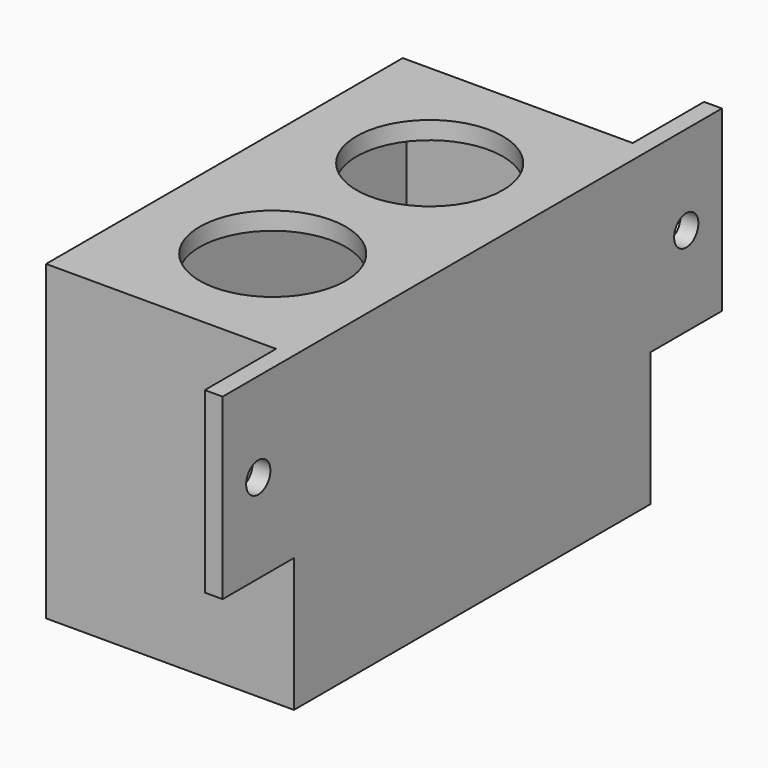
from build123d import *

# Parameters (mm, degrees)
PAD_DEPTH       = 20
SKETCH001_W     = 23.8
SKETCH001_H     = 46
POCKET_DEPTH    = 18
SKETCH002_R     = 8.2
POCKET001_DEPTH = 5
SKETCH003_R     = 1.7
POCKET002_DEPTH = 5
SKETCH004_R     = 1.7
POCKET003_DEPTH = 5
SKETCH005_W     = 25.8
SKETCH005_H     = 2
SKETCH005_W_2   = 2
SKETCH005_H_2   = 48
SKETCH005_W_3   = 23.8
SKETCH005_H_3   = 50
PAD001_DEPTH    = 15
SKETCH006_W     = 23.8
SKETCH006_H     = 46
POCKET004_DEPTH = 15


with BuildPart() as part:
    # Sketch → Pad (new body)
    with BuildSketch(Plane.XY):
        Polygon((-2, 15.090214), (0, 15.090214), (0, -54.909786), (-2, -54.909786), (-2, -44.909786), (-27.8, -44.909786), (-27.8, 5.090214), (-2, 5.090214), align=None)
    extrude(amount=PAD_DEPTH)

    # Sketch001 (on Face9 of Pad) → Pocket (cut)
    with BuildSketch(Plane(origin=(0, 0, 0), x_dir=(1, 0, 0), z_dir=(0, 0, -1))):
        with Locations((-13.9, 19.909786)):
            Rectangle(SKETCH001_W, SKETCH001_H)
    extrude(amount=-POCKET_DEPTH, mode=Mode.SUBTRACT)

    # Sketch002 (on Face5 of Pocket) → Pocket001 (cut)
    with BuildSketch(Plane.XY.offset(20)):
        with Locations((-13.5, -9.004213)):
            Circle(SKETCH002_R)
        with Locations((-13.5, -31.004213)):
            Circle(SKETCH002_R)
    extrude(amount=-POCKET001_DEPTH, mode=Mode.SUBTRACT)

    # Sketch003 (on Face9 of Pocket001) → Pocket002 (cut)
    with BuildSketch(Plane(origin=(-2, 0, 0), x_dir=(0, -1, 0), z_dir=(-1, 0, 0))):
        with Locations((49.909786, 10)):
            Circle(SKETCH003_R)
    extrude(amount=-POCKET002_DEPTH, mode=Mode.SUBTRACT)

    # Sketch004 (on Face2 of Pocket002) → Pocket003 (cut)
    with BuildSketch(Plane(origin=(-2, 0, 0), x_dir=(0, -1, 0), z_dir=(-1, 0, 0))):
        with Locations((-10.090214, 10)):
            Circle(SKETCH004_R)
    extrude(amount=-POCKET003_DEPTH, mode=Mode.SUBTRACT)

    # Sketch005 (on Face4 of Pocket003) → Pad001 (join)
    with BuildSketch(Plane(origin=(0, 0, 0), x_dir=(1, 0, 0), z_dir=(0, 0, -1))):
        with Locations((-14.9, 43.909786)):
            Rectangle(SKETCH005_W, SKETCH005_H)
        with Locations((-26.8, 18.909786)):
            Rectangle(SKETCH005_W_2, SKETCH005_H_2)
        with Locations((-13.9, -4.090214)):
            Rectangle(SKETCH005_W_3, SKETCH005_H)
        with Locations((-1, 19.909786)):
            Rectangle(SKETCH005_W_2, SKETCH005_H_3)
    extrude(amount=PAD001_DEPTH)

    # Sketch006 (on Face21 of Pad001) → Pocket004 (cut)
    with BuildSketch(Plane(origin=(0, 0, -15), x_dir=(1, 0, 0), z_dir=(0, 0, -1))):
        with Locations((-13.9, 19.909786)):
            Rectangle(SKETCH006_W, SKETCH006_H)
    extrude(amount=-POCKET004_DEPTH, mode=Mode.SUBTRACT)


solid = part.part
